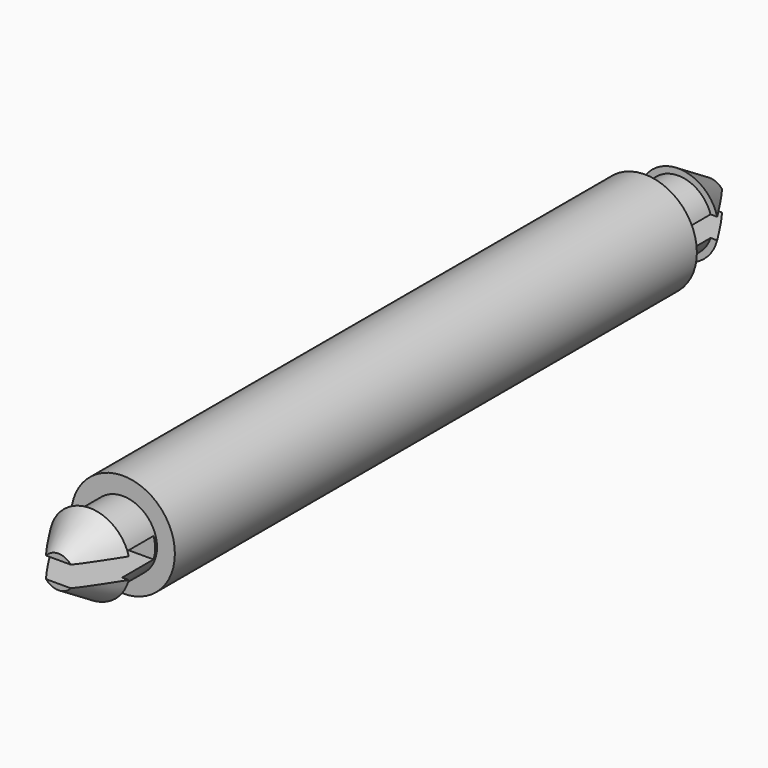
from build123d import *

# Parameters (mm, degrees)
F0_R     = 0.7
F1_DEPTH = 17.65
F0_R_2   = 1.475
F2_DEPTH = 15.95
F0_R_3   = 2.25
F3_DEPTH = 14.15
F6_W     = 5.524591
F6_H     = 0.9
F8_DEPTH = 3.4
F7_W     = 4.841808
F7_H     = 0.9
F9_DEPTH = 3.4


with BuildPart() as f1:
    # F0 (on Front) → F1 (new body, symmetric)
    with BuildSketch(Plane.XZ):
        Circle(F0_R)
    extrude(amount=F1_DEPTH, both=True)

    # F0 (on Front) → F2 (join, symmetric)
    with BuildSketch(Plane.XZ):
        Circle(F0_R_2)
        Circle(F0_R, mode=Mode.SUBTRACT)
    extrude(amount=F2_DEPTH, both=True)

    # F0 (on Front) → F3 (join, symmetric)
    with BuildSketch(Plane.XZ):
        Circle(F0_R_3)
        Circle(F0_R_2, mode=Mode.SUBTRACT)
    extrude(amount=F3_DEPTH, both=True)

    # F4 (on Right) → F5 (revolve)
    with BuildSketch(Plane.YZ):
        Polygon((15.95, 0.7), (17.65, 0.7), (15.95, 1.75), align=None)
        Polygon((-17.65, 0.7), (-15.95, 0.7), (-15.95, 1.75), align=None)
    revolve(axis=Axis((0, 15.95, 0), (0, -1, 0)))

    # F6 (on face) → F8 (cut)
    with BuildSketch(Plane(origin=(0, 17.65, 0), x_dir=(-1, 0, 0), z_dir=(0, 1, 0))):
        with Locations((0.045305, 0)):
            Rectangle(F6_W, F6_H)
    extrude(amount=-F8_DEPTH, mode=Mode.SUBTRACT)

    # F7 (on face) → F9 (cut)
    with BuildSketch(Plane.XZ.offset(17.65)):
        Rectangle(F7_W, F7_H)
    extrude(amount=-F9_DEPTH, mode=Mode.SUBTRACT)


solid = f1.part
